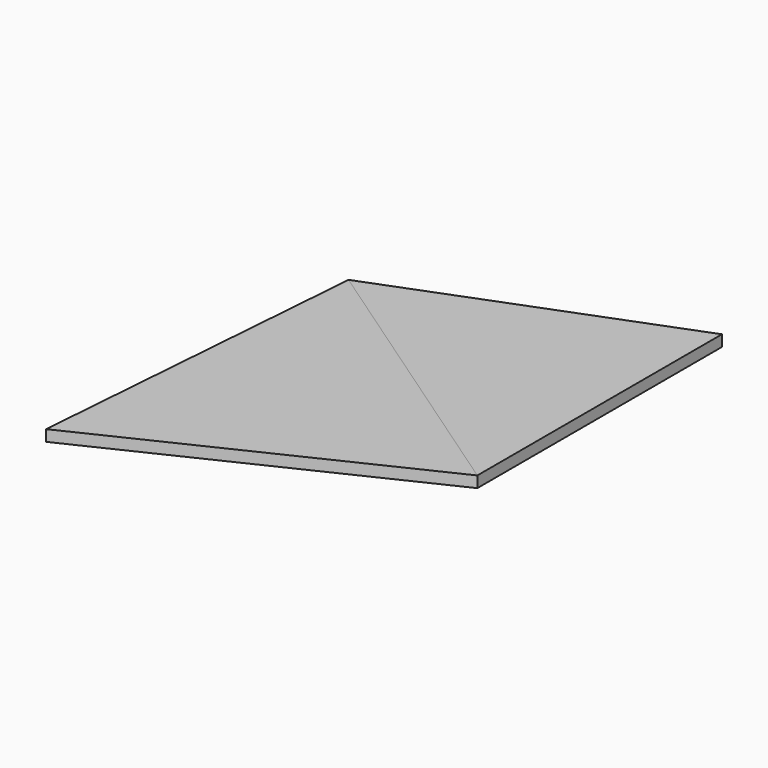
from build123d import *

# Parameters (mm, degrees)
F1_DEPTH = 3
F2_DEPTH = 3


with BuildPart() as f1:
    # F0 (on Top) → F1 (new body)
    with BuildSketch(Plane.XY):
        Polygon((0, -81.975), (0, 0), (-76.459487, -29.56091), align=None)
    extrude(amount=F1_DEPTH)


with BuildPart() as f2:
    # F0 (on Top) → F2 (new body)
    with BuildSketch(Plane.XY):
        Polygon((-83.621677, -121.983814), (0, -81.975), (-76.459487, -29.56091), align=None)
    extrude(amount=F2_DEPTH)


solid = Compound([f1.part, f2.part])
